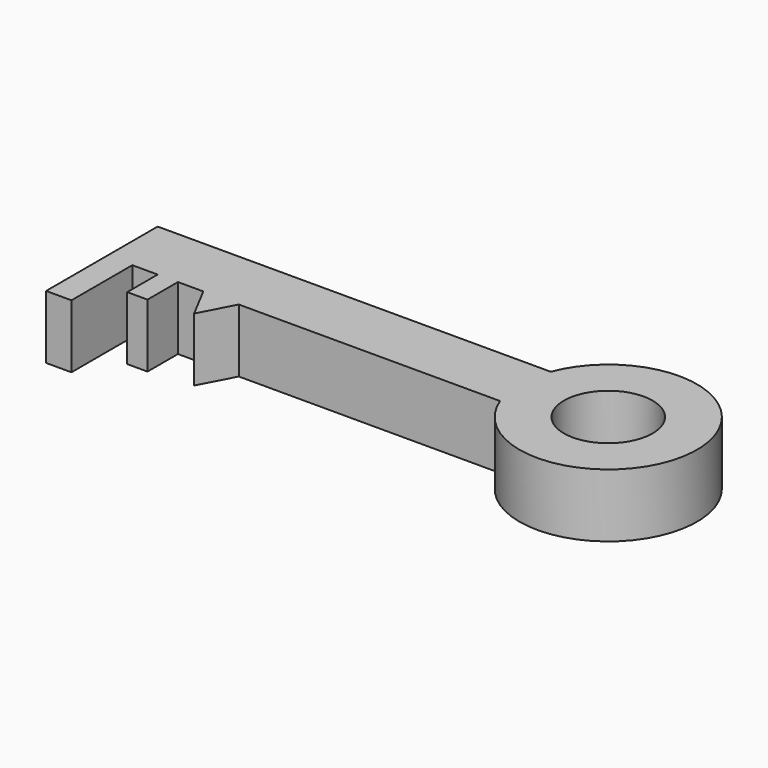
from build123d import *

# Parameters (mm, degrees)
F0_R     = 17.5
F0_W     = 10
F0_H     = 30
F0_W_2   = 8
F0_H_2   = 15
F1_DEPTH = 25


with BuildPart() as f1:
    # F0 (on Top) → F1 (new body)
    with BuildSketch(Plane.XY):
        with BuildLine():
            Line((64.914131, 37.964909), (-90.085869, 37.964909))
            Line((-90.085869, 37.964909), (-90.085869, 12.964909))
            Line((-90.085869, 12.964909), (-80.085869, 12.964909))
            Line((-80.085869, 12.964909), (-70.085869, 12.964909))
            Line((-70.085869, 12.964909), (-62.085869, 12.964909))
            Line((-62.085869, 12.964909), (-52.085869, 12.964909))
            Line((-52.085869, 12.964909), (-38.085869, 12.964909))
            Line((-38.085869, 12.964909), (64.914131, 12.964909))
            ThreePointArc((64.914131, 12.964909), (132.605873, 25.464909), (64.914131, 37.964909))
        make_face()
        with Locations((97.605873, 25.464909)):
            Circle(F0_R, mode=Mode.SUBTRACT)
        with Locations((-85.085869, -2.035091)):
            Rectangle(F0_W, F0_H)
        Polygon((-45.085869, -0.30159), (-38.085869, 12.964909), (-52.085869, 12.964909), align=None)
        with Locations((-66.085869, 5.464909)):
            Rectangle(F0_W_2, F0_H_2)
    extrude(amount=F1_DEPTH)


solid = f1.part
